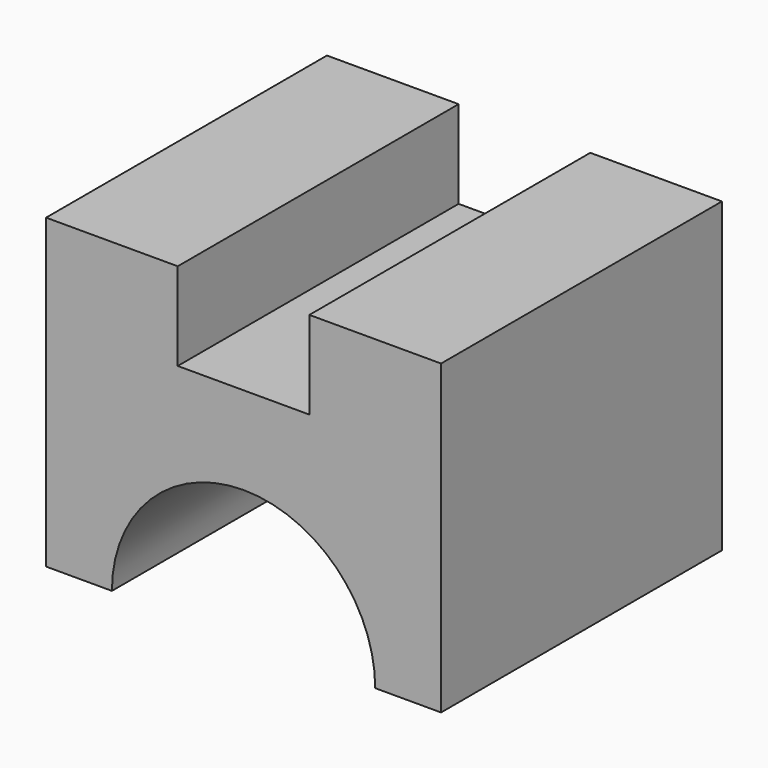
from build123d import *

# Parameters (mm, degrees)
F1_DEPTH = 1016


with BuildPart() as f1:
    # F0 (on Front) → F1 (new body)
    with BuildSketch(Plane.XZ):
        with BuildLine():
            Line((0, 889), (0, 0))
            Line((0, 0), (190.5, 0))
            ThreePointArc((190.5, 0), (571.5, 381), (952.5, 0))
            Line((952.5, 0), (1143, 0))
            Line((1143, 0), (1143, 889))
            Line((1143, 889), (762, 889))
            Line((762, 889), (762, 635))
            Line((762, 635), (381, 635))
            Line((381, 635), (381, 889))
            Line((381, 889), (0, 889))
        make_face()
    extrude(amount=F1_DEPTH)


solid = f1.part
